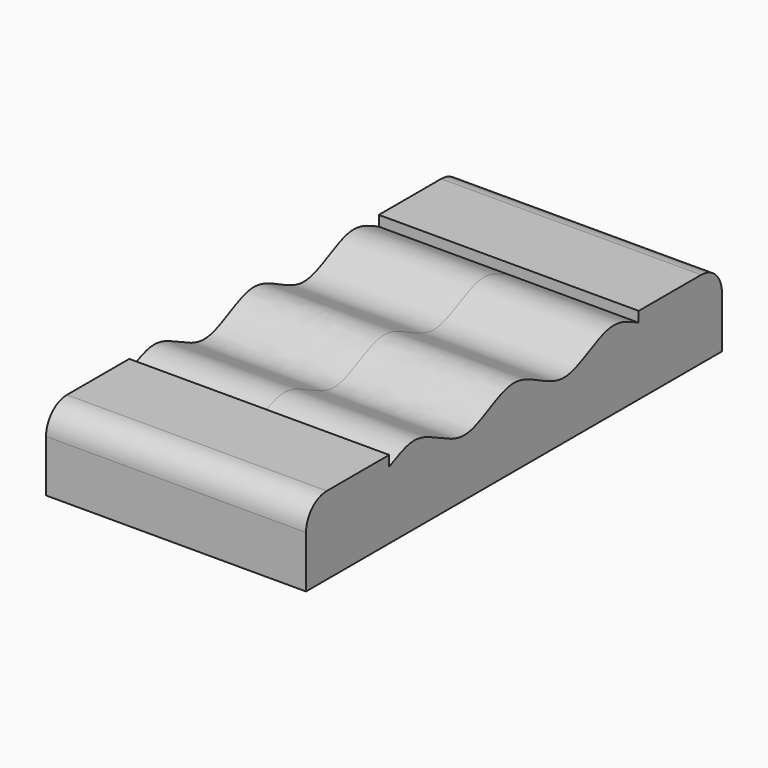
from build123d import *

# Parameters (mm, degrees)
F1_DEPTH = 25


with BuildPart() as f1:
    # F0 (on Right) → F1 (new body, symmetric)
    with BuildSketch(Plane.YZ):
        with BuildLine():
            Line((-30, 7.5), (-45, 7.5))
            ThreePointArc((-45, 7.5), (-48.535534, 6.035534), (-50, 2.5))
            Line((-50, 2.5), (-50, -7.5))
            Line((-50, -7.5), (50, -7.5))
            Line((50, -7.5), (50, 2.5))
            ThreePointArc((50, 2.5), (48.535534, 6.035534), (45, 7.5))
            Line((45, 7.5), (30, 7.5))
            Line((30, 7.5), (30, 5.5))
            add(Edge.make_bspline(
                [(24, 7.5), (26, 7.5), (28, 6.5), (30, 5.5)],
                knots=[31.622777, 31.622777, 31.622777, 31.622777, 37.947332, 37.947332, 37.947332, 37.947332], degree=3))
            add(Edge.make_bspline(
                [(0, 7.5), (2, 7.5), (6, 5.5), (12, 2.5), (18, 5.5), (22, 7.5), (24, 7.5)],
                knots=[6.324555, 6.324555, 6.324555, 6.324555, 12.649111, 18.973666, 25.298221, 31.622777, 31.622777, 31.622777, 31.622777], degree=3))
            add(Edge.make_bspline(
                [(-6, 5.5), (-4, 6.5), (-2, 7.5), (0, 7.5)],
                knots=[0, 0, 0, 0, 6.324555, 6.324555, 6.324555, 6.324555], degree=3))
            add(Edge.make_bspline(
                [(-24, 7.5), (-22, 7.5), (-18, 5.5), (-12, 2.5), (-8, 4.5), (-6, 5.5)],
                knots=[6.324555, 6.324555, 6.324555, 6.324555, 12.649111, 18.973666, 25.298221, 25.298221, 25.298221, 25.298221], degree=3))
            add(Edge.make_bspline(
                [(-30, 5.5), (-28, 6.5), (-26, 7.5), (-24, 7.5)],
                knots=[0, 0, 0, 0, 6.324555, 6.324555, 6.324555, 6.324555], degree=3))
            Line((-30, 5.5), (-30, 7.5))
        make_face()
    extrude(amount=F1_DEPTH, both=True)


solid = f1.part
